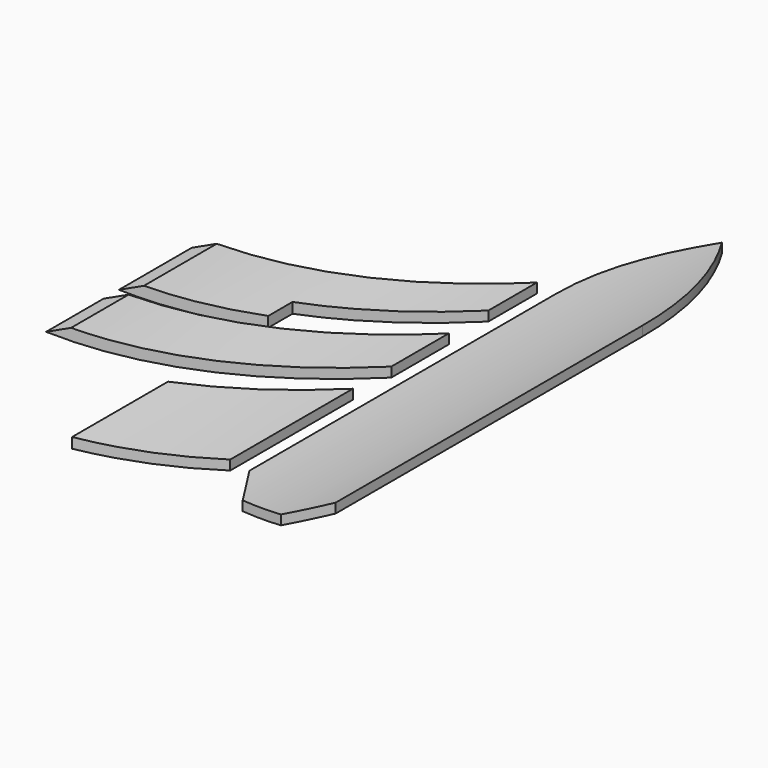
from build123d import *

# Parameters (mm, degrees)
PAD_DEPTH       = 10
SKETCH005_R     = 39.820196
SKETCH005_R_2   = 30
POCKET_DEPTH    = 60.001
SKETCH006_R     = 29.5
POCKET001_DEPTH = 60.001
PAD001_DEPTH    = 10
SKETCH007_R     = 41.392108
SKETCH007_R_2   = 30
POCKET002_DEPTH = 26.001
SKETCH008_R     = 29.5
POCKET003_DEPTH = 26.001
PAD002_DEPTH    = 10
SKETCH009_R     = 40.247183
SKETCH009_R_2   = 30
POCKET004_DEPTH = 34.501
SKETCH010_R     = 29.5
POCKET005_DEPTH = 32.691491
PAD003_DEPTH    = 10
SKETCH011_R     = 39.292354
SKETCH011_R_2   = 30
POCKET006_DEPTH = 36.496
SKETCH012_R     = 29.5
POCKET007_DEPTH = 34.686491


with BuildPart() as main_body:
    # Sketch → Pad (new body)
    with BuildSketch(Plane.XY):
        with BuildLine():
            Line((-4.5, 20), (-4.5, -20))
            Line((-4.5, -20), (-2, -24))
            Line((-2, -24), (2, -24))
            Line((2, -24), (4.5, -20))
            Line((4.5, -20), (4.5, 20))
            ThreePointArc((4.5, 20), (3.353591, 28.310385), (0, 36))
            ThreePointArc((0, 36), (-3.353591, 28.310385), (-4.5, 20))
        make_face()
    extrude(amount=PAD_DEPTH)

    # Sketch005 (on DatumPlane) → Pocket (cut, through all)
    with BuildSketch(Plane(origin=(0, 36, 0), x_dir=(-1, 0, 0), z_dir=(0, 1, 0))):
        with Locations((0, 30)):
            Circle(SKETCH005_R)
        with Locations((0, 30)):
            Circle(SKETCH005_R_2, mode=Mode.SUBTRACT)
    extrude(amount=-POCKET_DEPTH, mode=Mode.SUBTRACT)

    # Sketch006 (on DatumPlane) → Pocket001 (cut, through all)
    with BuildSketch(Plane(origin=(0, 36, 0), x_dir=(-1, 0, 0), z_dir=(0, 1, 0))):
        with Locations((0, 30.5)):
            Circle(SKETCH006_R)
    extrude(amount=-POCKET001_DEPTH, mode=Mode.SUBTRACT)


with BuildPart() as body004:
    # Sketch001 → Pad001 (new body)
    with BuildSketch(Plane.XY):
        Polygon((6.5, -20), (6.5, -4), (15, -17.5), (15, -30), align=None)
    extrude(amount=PAD001_DEPTH)

    # Sketch007 (on DatumPlane) → Pocket002 (cut, through all)
    with BuildSketch(Plane(origin=(6.5, -4, 0), x_dir=(1, 0, 0), z_dir=(0, -1, 0))):
        with Locations((-6.5, 30)):
            Circle(SKETCH007_R)
        with Locations((-6.5, 30)):
            Circle(SKETCH007_R_2, mode=Mode.SUBTRACT)
    extrude(amount=POCKET002_DEPTH, mode=Mode.SUBTRACT)

    # Sketch008 (on DatumPlane) → Pocket003 (cut, through all)
    with BuildSketch(Plane(origin=(6.5, -4, 0), x_dir=(1, 0, 0), z_dir=(0, -1, 0))):
        with Locations((-6.5, 30.5)):
            Circle(SKETCH008_R)
    extrude(amount=POCKET003_DEPTH, mode=Mode.SUBTRACT)


with BuildPart() as lower_left_wing:
    # Part__Mirroring: instance of Body004
    add(body004.part.mirror(Plane(origin=(0, 0, 0), x_dir=(0, -1, 0), z_dir=(1, 0, 0))))


with BuildPart() as body005:
    # Sketch002 → Pad002 (new body)
    with BuildSketch(Plane.XY):
        Polygon((6.5, 1), (6.5, 8.5), (23.5, -18.5), (23.5, -26), align=None)
    extrude(amount=PAD002_DEPTH)

    # Sketch009 (on DatumPlane) → Pocket004 (cut, through all)
    with BuildSketch(Plane(origin=(6.5, 8.5, 0), x_dir=(1, 0, 0), z_dir=(0, -1, 0))):
        with Locations((-6.5, 30)):
            Circle(SKETCH009_R)
        with Locations((-6.5, 30)):
            Circle(SKETCH009_R_2, mode=Mode.SUBTRACT)
    extrude(amount=POCKET004_DEPTH, mode=Mode.SUBTRACT)

    # Sketch010 (on DatumPlane) → Pocket005 (cut, through all)
    with BuildSketch(Plane(origin=(6.5, 8.5, 0), x_dir=(1, 0, 0), z_dir=(0, -1, 0))):
        with Locations((-6.5, 30.5)):
            Circle(SKETCH010_R)
    extrude(amount=POCKET005_DEPTH, mode=Mode.SUBTRACT)


with BuildPart() as mid_left_wing:
    # Part__Mirroring001: instance of Body005
    add(body005.part.mirror(Plane(origin=(0, 0, 0), x_dir=(0, -1, 0), z_dir=(1, 0, 0))))


with BuildPart() as body006:
    # Sketch003 → Pad003 (new body)
    with BuildSketch(Plane.XY):
        Polygon((6.5, 13.665), (6.5, 19.995), (23.5, -7.005), (23.5, -16.5), (15.5, -3.794118), (15.5, -0.629118), align=None)
    extrude(amount=PAD003_DEPTH)

    # Sketch011 (on DatumPlane) → Pocket006 (cut, through all)
    with BuildSketch(Plane(origin=(6.5, 19.995, 0), x_dir=(1, 0, 0), z_dir=(0, -1, 0))):
        with Locations((-6.5, 30)):
            Circle(SKETCH011_R)
        with Locations((-6.5, 30)):
            Circle(SKETCH011_R_2, mode=Mode.SUBTRACT)
    extrude(amount=POCKET006_DEPTH, mode=Mode.SUBTRACT)

    # Sketch012 (on DatumPlane) → Pocket007 (cut, through all)
    with BuildSketch(Plane(origin=(6.5, 19.995, 0), x_dir=(1, 0, 0), z_dir=(0, -1, 0))):
        with Locations((-6.5, 30.5)):
            Circle(SKETCH012_R)
    extrude(amount=POCKET007_DEPTH, mode=Mode.SUBTRACT)


with BuildPart() as upper_left_wing:
    # Part__Mirroring002: instance of Body006
    add(body006.part.mirror(Plane(origin=(0, 0, 0), x_dir=(0, -1, 0), z_dir=(1, 0, 0))))


solid = Compound([main_body.part, lower_left_wing.part, mid_left_wing.part, upper_left_wing.part])
